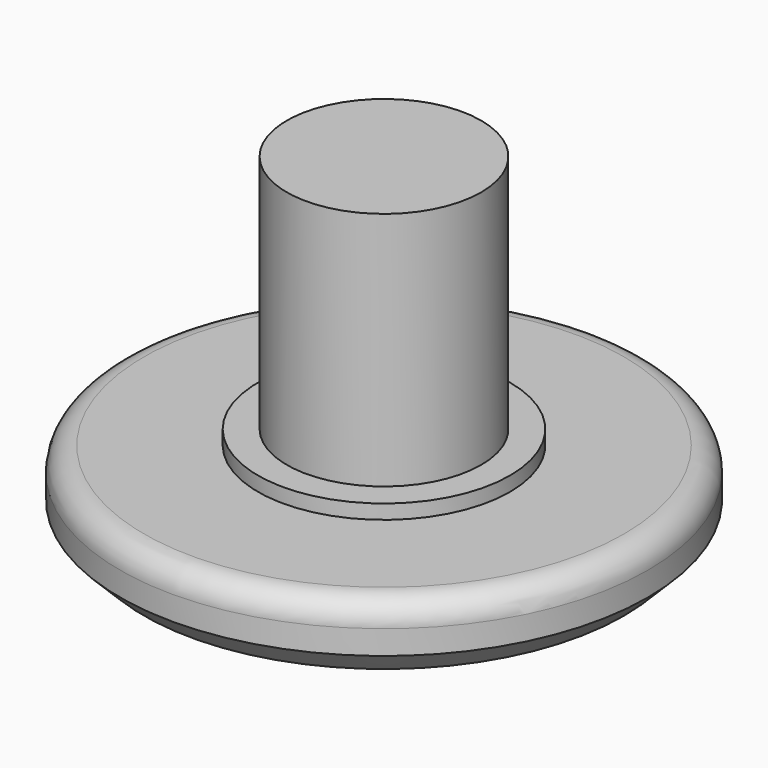
from build123d import *

# Parameters (mm, degrees)
F0_R     = 11
F1_DEPTH = 3
F2_R     = 5.25
F3_DEPTH = 0.6
F4_R     = 4.05
F5_DEPTH = 10
F6_SIZE  = 1
F7_R     = 1


with BuildPart() as f1:
    # F0 (on Top) → F1 (new body)
    with BuildSketch(Plane.XY):
        Circle(F0_R)
    extrude(amount=F1_DEPTH)

    # F2 (on face) → F3 (join)
    with BuildSketch(Plane.XY.offset(3)):
        Circle(F2_R)
    extrude(amount=F3_DEPTH)

    # F4 (on face) → F5 (join)
    with BuildSketch(Plane.XY.offset(3.6)):
        Circle(F4_R)
    extrude(amount=F5_DEPTH)

    # F6
    f6_edges = [f1.edges().sort_by_distance(p)[0] for p in [
        (-11, 0, 0),
    ]]
    chamfer(f6_edges, length=F6_SIZE)

    # F7
    f7_edges = [f1.edges().sort_by_distance(p)[0] for p in [
        (-11, 0, 3),
    ]]
    fillet(f7_edges, radius=F7_R)


solid = f1.part
